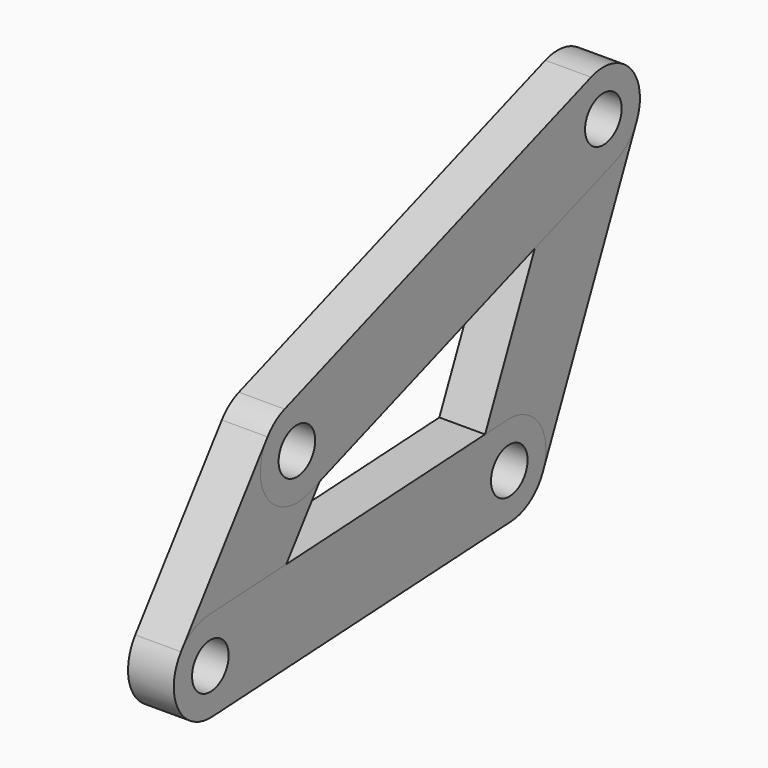
from build123d import *

# Parameters (mm, degrees)
F0_R     = 6.35
F1_DEPTH = 12.7
F2_DEPTH = 12.7
F3_DEPTH = 12.7
F4_DEPTH = 12.7


with BuildPart() as f1:
    # F0 (on Right) → F1 (new body)
    with BuildSketch(Plane.YZ):
        with BuildLine():
            ThreePointArc((-83.9083950328, 42.3472659243), (-83.9361302008, 27.2132734438), (-69.4604435559, 22.7981863781))
            ThreePointArc((-69.4604435559, 22.7981863781), (-66.1744473375, 24.5481989863), (-63.5371080479, 27.1758893691))
            ThreePointArc((-63.5371080479, 27.1758893691), (-61.6677178956, 30.7658094073), (-61.0227515404, 34.7615776467))
            ThreePointArc((-61.0227515404, 34.7615776467), (-66.4029602661, 45.1399520715), (-77.9850595248, 46.7249689153))
            ThreePointArc((-77.9850595248, 46.7249689153), (-81.2710557432, 44.9749563071), (-83.9083950328, 42.3472659243))
        make_face()
        with Locations((-73.7227515404, 34.7615776467)):
            Circle(F0_R, mode=Mode.SUBTRACT)
        with BuildLine():
            Line((-104.4363172723, 7.1162714515), (-77.3961663813, 8.5667108531))
            Line((-77.3961663813, 8.5667108531), (-65.8355577842, 24.0896579367))
            Line((-65.8355577842, 24.0896579367), (-69.4604435559, 22.7981863781))
            ThreePointArc((-69.4604435559, 22.7981863781), (-83.9361302008, 27.2132734438), (-83.9083950328, 42.3472659243))
            Line((-83.9083950328, 42.3472659243), (-113.9417080171, 2.0201910748))
            ThreePointArc((-113.9417080171, 2.0201910748), (-109.7568506462, 5.6273829415), (-104.4363172723, 7.1162714515))
        make_face()
        with BuildLine():
            Line((-69.4604435559, 22.7981863781), (-65.8355577842, 24.0896579367))
            Line((-65.8355577842, 24.0896579367), (-63.5371080479, 27.1758893691))
            ThreePointArc((-63.5371080479, 27.1758893691), (-66.1744473375, 24.5481989863), (-69.4604435559, 22.7981863781))
        make_face()
        with BuildLine():
            Line((-93.5704210322, -13.1511854804), (-77.3961663813, 8.5667108531))
            Line((-77.3961663813, 8.5667108531), (-104.4363172723, 7.1162714515))
            ThreePointArc((-104.4363172723, 7.1162714515), (-95.0196238849, 3.6521274884), (-91.0560645247, -5.5654972028))
            ThreePointArc((-91.0560645247, -5.5654972028), (-91.7010308799, -9.5612654422), (-93.5704210322, -13.1511854804))
        make_face()
        with BuildLine():
            ThreePointArc((-113.9417080171, 2.0201910748), (-114.948944669, -11.5662833243), (-103.0758117771, -18.247265857))
            ThreePointArc((-103.0758117771, -18.247265857), (-97.7552784032, -16.758377347), (-93.5704210322, -13.1511854804))
            ThreePointArc((-93.5704210322, -13.1511854804), (-91.7010308799, -9.5612654422), (-91.0560645247, -5.5654972028))
            ThreePointArc((-91.0560645247, -5.5654972028), (-95.0196238849, 3.6521274884), (-104.4363172723, 7.1162714515))
            ThreePointArc((-104.4363172723, 7.1162714515), (-109.7568506462, 5.6273829415), (-113.9417080171, 2.0201910748))
        make_face()
        with Locations((-103.7560645247, -5.5654972028)):
            Circle(F0_R, mode=Mode.SUBTRACT)
    extrude(amount=F1_DEPTH)


with BuildPart() as f2:
    # F0 (on Right) → F2 (new body)
    with BuildSketch(Plane.YZ):
        with BuildLine():
            Line((21.055316714, 77.860714389), (8.853634096, 50.6998666772))
            Line((8.853634096, 50.6998666772), (36.9023292992, 60.6930345702))
            ThreePointArc((36.9023292992, 60.6930345702), (23.3079968483, 64.0422909805), (21.055316714, 77.860714389))
        make_face()
        with BuildLine():
            ThreePointArc((-0.6802527476, 12.6817686542), (8.7364406398, 9.2176246912), (12.7, 0))
            ThreePointArc((12.7, 0), (12.4180463123, -2.6612263687), (11.5847046007, -5.2042885502))
            Line((11.5847046007, -5.2042885502), (44.2247259155, 67.4521372886))
            ThreePointArc((44.2247259155, 67.4521372886), (41.2541561731, 63.3244013724), (36.9023292992, 60.6930345702))
            Line((36.9023292992, 60.6930345702), (8.853634096, 50.6998666772))
            Line((8.853634096, 50.6998666772), (-8.411846923, 12.2670443106))
            Line((-8.411846923, 12.2670443106), (-0.6802527476, 12.6817686542))
        make_face()
        with BuildLine():
            ThreePointArc((36.9023292992, 60.6930345702), (41.2541561731, 63.3244013724), (44.2247259155, 67.4521372886))
            ThreePointArc((44.2247259155, 67.4521372886), (45.058067627, 69.9951994701), (45.3400213147, 72.6564258388))
            ThreePointArc((45.3400213147, 72.6564258388), (39.959812589, 83.0348002636), (28.3777133303, 84.6198171074))
            ThreePointArc((28.3777133303, 84.6198171074), (24.0258864564, 81.9884503053), (21.055316714, 77.860714389))
            ThreePointArc((21.055316714, 77.860714389), (23.3079968483, 64.0422909805), (36.9023292992, 60.6930345702))
        make_face()
        with Locations((32.6400213147, 72.6564258388)):
            Circle(F0_R, mode=Mode.SUBTRACT)
        with BuildLine():
            ThreePointArc((-11.5847046007, 5.2042885502), (-7.1823026855, 10.4739929413), (-0.6802527476, 12.6817686542))
            Line((-0.6802527476, 12.6817686542), (-8.411846923, 12.2670443106))
            Line((-8.411846923, 12.2670443106), (-11.5847046007, 5.2042885502))
        make_face()
        with BuildLine():
            ThreePointArc((11.5847046007, -5.2042885502), (12.4180463123, -2.6612263687), (12.7, 0))
            ThreePointArc((12.7, 0), (8.7364406398, 9.2176246912), (-0.6802527476, 12.6817686542))
            ThreePointArc((-0.6802527476, 12.6817686542), (-7.1823026855, 10.4739929413), (-11.5847046007, 5.2042885502))
            ThreePointArc((-11.5847046007, 5.2042885502), (-10.4739929413, -7.1823026855), (0.6802527476, -12.6817686542))
            ThreePointArc((0.6802527476, -12.6817686542), (7.1823026855, -10.4739929413), (11.5847046007, -5.2042885502))
        make_face()
        Circle(F0_R, mode=Mode.SUBTRACT)
    extrude(amount=F2_DEPTH)


with BuildPart() as f3:
    # F0 (on Right) → F3 (new body)
    with BuildSketch(Plane.YZ):
        with BuildLine():
            ThreePointArc((-83.9083950328, 42.3472659243), (-83.9361302008, 27.2132734438), (-69.4604435559, 22.7981863781))
            ThreePointArc((-69.4604435559, 22.7981863781), (-66.1744473375, 24.5481989863), (-63.5371080479, 27.1758893691))
            ThreePointArc((-63.5371080479, 27.1758893691), (-61.6677178956, 30.7658094073), (-61.0227515404, 34.7615776467))
            ThreePointArc((-61.0227515404, 34.7615776467), (-66.4029602661, 45.1399520715), (-77.9850595248, 46.7249689153))
            ThreePointArc((-77.9850595248, 46.7249689153), (-81.2710557432, 44.9749563071), (-83.9083950328, 42.3472659243))
        make_face()
        with Locations((-73.7227515404, 34.7615776467)):
            Circle(F0_R, mode=Mode.SUBTRACT)
        with BuildLine():
            Line((-65.8355577842, 24.0896579367), (8.853634096, 50.6998666772))
            Line((8.853634096, 50.6998666772), (21.055316714, 77.860714389))
            ThreePointArc((21.055316714, 77.860714389), (24.0258864564, 81.9884503053), (28.3777133303, 84.6198171074))
            Line((28.3777133303, 84.6198171074), (-77.9850595248, 46.7249689153))
            ThreePointArc((-77.9850595248, 46.7249689153), (-66.4029602661, 45.1399520715), (-61.0227515404, 34.7615776467))
            ThreePointArc((-61.0227515404, 34.7615776467), (-61.6677178956, 30.7658094073), (-63.5371080479, 27.1758893691))
            Line((-63.5371080479, 27.1758893691), (-65.8355577842, 24.0896579367))
        make_face()
        with BuildLine():
            Line((21.055316714, 77.860714389), (8.853634096, 50.6998666772))
            Line((8.853634096, 50.6998666772), (36.9023292992, 60.6930345702))
            ThreePointArc((36.9023292992, 60.6930345702), (23.3079968483, 64.0422909805), (21.055316714, 77.860714389))
        make_face()
        with BuildLine():
            ThreePointArc((36.9023292992, 60.6930345702), (41.2541561731, 63.3244013724), (44.2247259155, 67.4521372886))
            ThreePointArc((44.2247259155, 67.4521372886), (45.058067627, 69.9951994701), (45.3400213147, 72.6564258388))
            ThreePointArc((45.3400213147, 72.6564258388), (39.959812589, 83.0348002636), (28.3777133303, 84.6198171074))
            ThreePointArc((28.3777133303, 84.6198171074), (24.0258864564, 81.9884503053), (21.055316714, 77.860714389))
            ThreePointArc((21.055316714, 77.860714389), (23.3079968483, 64.0422909805), (36.9023292992, 60.6930345702))
        make_face()
        with Locations((32.6400213147, 72.6564258388)):
            Circle(F0_R, mode=Mode.SUBTRACT)
        with BuildLine():
            Line((-69.4604435559, 22.7981863781), (-65.8355577842, 24.0896579367))
            Line((-65.8355577842, 24.0896579367), (-63.5371080479, 27.1758893691))
            ThreePointArc((-63.5371080479, 27.1758893691), (-66.1744473375, 24.5481989863), (-69.4604435559, 22.7981863781))
        make_face()
    extrude(amount=F3_DEPTH)


with BuildPart() as f4:
    # F0 (on Right) → F4 (new body)
    with BuildSketch(Plane.YZ):
        with BuildLine():
            ThreePointArc((-113.9417080171, 2.0201910748), (-114.948944669, -11.5662833243), (-103.0758117771, -18.247265857))
            ThreePointArc((-103.0758117771, -18.247265857), (-97.7552784032, -16.758377347), (-93.5704210322, -13.1511854804))
            ThreePointArc((-93.5704210322, -13.1511854804), (-91.7010308799, -9.5612654422), (-91.0560645247, -5.5654972028))
            ThreePointArc((-91.0560645247, -5.5654972028), (-95.0196238849, 3.6521274884), (-104.4363172723, 7.1162714515))
            ThreePointArc((-104.4363172723, 7.1162714515), (-109.7568506462, 5.6273829415), (-113.9417080171, 2.0201910748))
        make_face()
        with Locations((-103.7560645247, -5.5654972028)):
            Circle(F0_R, mode=Mode.SUBTRACT)
        with BuildLine():
            ThreePointArc((0.6802527476, -12.6817686542), (-10.4739929413, -7.1823026855), (-11.5847046007, 5.2042885502))
            Line((-11.5847046007, 5.2042885502), (-8.411846923, 12.2670443106))
            Line((-8.411846923, 12.2670443106), (-77.3961663813, 8.5667108531))
            Line((-77.3961663813, 8.5667108531), (-93.5704210322, -13.1511854804))
            ThreePointArc((-93.5704210322, -13.1511854804), (-97.7552784032, -16.758377347), (-103.0758117771, -18.247265857))
            Line((-103.0758117771, -18.247265857), (0.6802527476, -12.6817686542))
        make_face()
        with BuildLine():
            ThreePointArc((-11.5847046007, 5.2042885502), (-7.1823026855, 10.4739929413), (-0.6802527476, 12.6817686542))
            Line((-0.6802527476, 12.6817686542), (-8.411846923, 12.2670443106))
            Line((-8.411846923, 12.2670443106), (-11.5847046007, 5.2042885502))
        make_face()
        with BuildLine():
            ThreePointArc((11.5847046007, -5.2042885502), (12.4180463123, -2.6612263687), (12.7, 0))
            ThreePointArc((12.7, 0), (8.7364406398, 9.2176246912), (-0.6802527476, 12.6817686542))
            ThreePointArc((-0.6802527476, 12.6817686542), (-7.1823026855, 10.4739929413), (-11.5847046007, 5.2042885502))
            ThreePointArc((-11.5847046007, 5.2042885502), (-10.4739929413, -7.1823026855), (0.6802527476, -12.6817686542))
            ThreePointArc((0.6802527476, -12.6817686542), (7.1823026855, -10.4739929413), (11.5847046007, -5.2042885502))
        make_face()
        Circle(F0_R, mode=Mode.SUBTRACT)
        with BuildLine():
            Line((-93.5704210322, -13.1511854804), (-77.3961663813, 8.5667108531))
            Line((-77.3961663813, 8.5667108531), (-104.4363172723, 7.1162714515))
            ThreePointArc((-104.4363172723, 7.1162714515), (-95.0196238849, 3.6521274884), (-91.0560645247, -5.5654972028))
            ThreePointArc((-91.0560645247, -5.5654972028), (-91.7010308799, -9.5612654422), (-93.5704210322, -13.1511854804))
        make_face()
    extrude(amount=F4_DEPTH)


solid = Compound([f1.part, f2.part, f3.part, f4.part])
